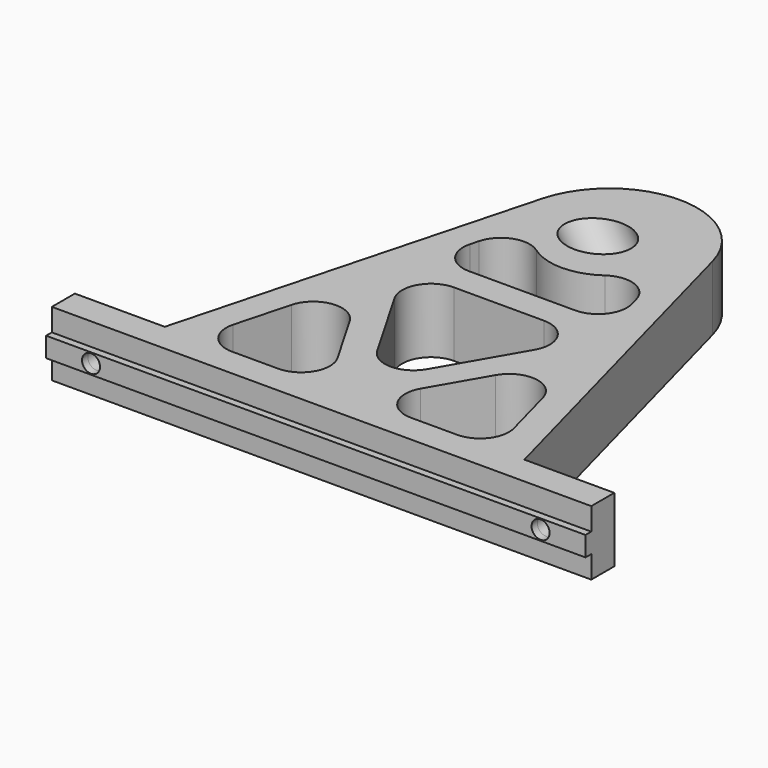
from build123d import *

# Parameters (mm, degrees)
F6_DEPTH       = 18
F7_W           = 150
F7_H           = 5.5
F7_R           = 2.5
F8_DEPTH       = 2
F9_DEPTH       = 8
F5_R           = 8
F10_DEPTH      = 40
F10_DEPTH_BACK = 30


with BuildPart() as f6:
    # F0 (on Top) → F6 (new body)
    with BuildSketch(Plane.XY):
        with BuildLine():
            Line((-75, -4), (75, -4))
            Line((75, -4), (75, 4))
            Line((75, 4), (50, 4))
            Line((50, 4), (23.6506350946, 102.3371685741))
            ThreePointArc((23.6506350946, 102.3371685741), (0, 120.484939165), (-23.6506350946, 102.3371685741))
            Line((-23.6506350946, 102.3371685741), (-50, 4))
            Line((-50, 4), (-75, 4))
            Line((-75, 4), (-75, -4))
        make_face()
        with BuildLine():
            ThreePointArc((-31.291987574, 4), (-37.6388142963, 7.1299085679), (-39.0193941843, 14.0705523608))
            Line((-39.0193941843, 14.0705523608), (-34.9566380514, 29.2329646678))
            ThreePointArc((-34.9566380514, 29.2329646678), (-28.2734409788, 35.0939711979), (-20.3010282108, 31.1624123069))
            Line((-20.3010282108, 31.1624123069), (-11.5470053838, 16))
            ThreePointArc((-11.5470053838, 16), (-11.5470053838, 8), (-18.4752086141, 4))
            Line((-18.4752086141, 4), (-31.291987574, 4))
        make_face(mode=Mode.SUBTRACT)
        with BuildLine():
            ThreePointArc((39.0193941843, 14.0705523608), (37.6388142963, 7.1299085679), (31.291987574, 4))
            Line((31.291987574, 4), (18.4752086141, 4))
            ThreePointArc((18.4752086141, 4), (11.5470053838, 8), (11.5470053838, 16))
            Line((11.5470053838, 16), (20.3010282108, 31.1624123069))
            ThreePointArc((20.3010282108, 31.1624123069), (28.2734409788, 35.0939711979), (34.9566380514, 29.2329646678))
            Line((34.9566380514, 29.2329646678), (39.0193941843, 14.0705523608))
        make_face(mode=Mode.SUBTRACT)
        with BuildLine():
            ThreePointArc((-19.4489291724, 45.6865334795), (-19.4489291724, 53.6865334795), (-12.5207259422, 57.6865334795))
            Line((-12.5207259422, 57.6865334795), (12.5207259422, 57.6865334795))
            ThreePointArc((12.5207259422, 57.6865334795), (19.4489291724, 53.6865334795), (19.4489291724, 45.6865334795))
            Line((19.4489291724, 45.6865334795), (6.9282032303, 24))
            ThreePointArc((6.9282032303, 24), (0, 20), (-6.9282032303, 24))
            Line((-6.9282032303, 24), (-19.4489291724, 45.6865334795))
        make_face(mode=Mode.SUBTRACT)
        with BuildLine():
            Line((14.7631307443, 65.6865334795), (-14.7631307443, 65.6865334795))
            ThreePointArc((-14.7631307443, 65.6865334795), (-21.1099574666, 68.8164420474), (-22.4905373546, 75.7570858403))
            Line((-22.4905373546, 75.7570858403), (-21.8677224991, 78.0814625246))
            ThreePointArc((-21.8677224991, 78.0814625246), (-16.8583855127, 83.5350112742), (-9.5202297882, 82.5419747342))
            ThreePointArc((-9.5202297882, 82.5419747342), (0, 79.515060835), (9.5202297882, 82.5419747342))
            ThreePointArc((9.5202297882, 82.5419747342), (16.8583855127, 83.5350112742), (21.8677224991, 78.0814625246))
            Line((21.8677224991, 78.0814625246), (22.4905373546, 75.7570858403))
            ThreePointArc((22.4905373546, 75.7570858403), (21.1099574666, 68.8164420474), (14.7631307443, 65.6865334795))
        make_face(mode=Mode.SUBTRACT)
    extrude(amount=F6_DEPTH)

    # F7 (on face) → F8 (join)
    with BuildSketch(Plane.XZ.offset(4)):
        with Locations((0, 9)):
            Rectangle(F7_W, F7_H)
        with Locations((-62.5, 9)):
            Circle(F7_R, mode=Mode.SUBTRACT)
        with Locations((62.5, 9)):
            Circle(F7_R, mode=Mode.SUBTRACT)
    extrude(amount=F8_DEPTH)

    # F9 (cut): faces of the model
    f9_faces = [f6.faces().sort_by_distance(p)[0] for p in [
        (62.5, -4, 9),
        (-62.5, -4, 9),
    ]]
    extrude(f9_faces, amount=-F9_DEPTH, mode=Mode.SUBTRACT)

    # F5 (on face) → F10 (cut, two sides)
    with BuildSketch(Plane(origin=(3.146304925, 0, -5.4495599862), x_dir=(0.8660254038, 0, 0.5), z_dir=(0.5, 0, -0.8660254038))) as f10_sk:
        with Locations((6.2546720728, -96)):
            Circle(F5_R)
    extrude(amount=-F10_DEPTH, mode=Mode.SUBTRACT)
    extrude(f10_sk.sketch, amount=F10_DEPTH_BACK, mode=Mode.SUBTRACT)


solid = f6.part
